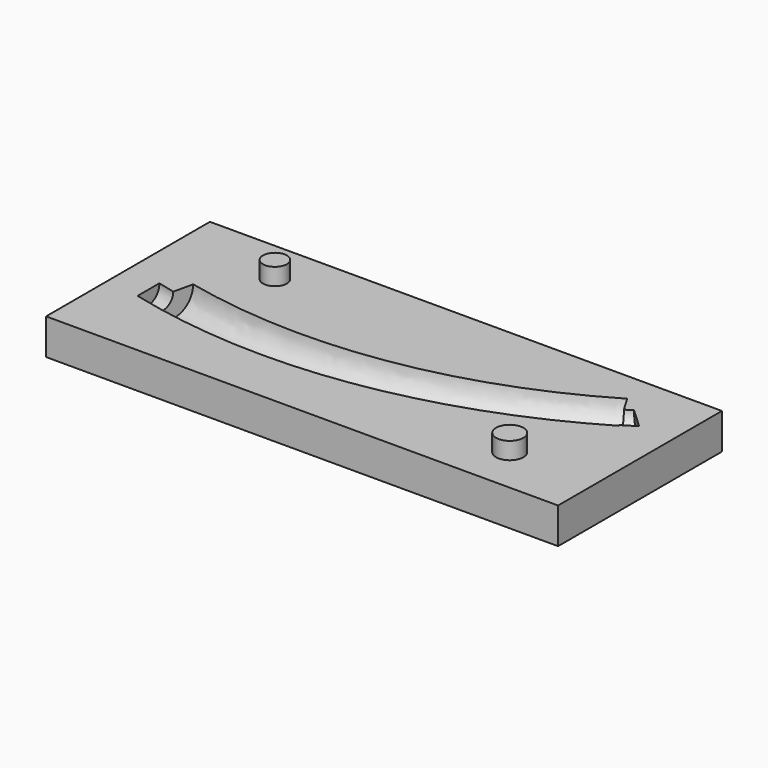
from build123d import *

# Parameters (mm, degrees)
SKETCH042_R      = 4
EXTRUDE025_DEPTH = 30
SKETCH040_R      = 7
SKETCH044_W      = 60
SKETCH044_H      = 10.5
EXTRUDE027_DEPTH = 150
SKETCH046_R      = 3.5
SKETCH046_R_2    = 4
EXTRUDE029_DEPTH = 5


with BuildPart() as sweep011:
    # Sweep011: sweep along a path in Sketch
    with BuildLine(Plane.XY) as sweep011_path:
        ThreePointArc((0, 0), (65.583227, -3.22849), (127, 20))
    # Sketch042 → Sweep011 (sweep)
    with BuildSketch(Plane(origin=(0, 0, 0), x_dir=(0, -1, 0), z_dir=(-1, 0, 0))):
        Circle(SKETCH042_R)
    sweep(path=sweep011_path.line)


with BuildPart() as sweep011_1:
    # Sweep011 placement: moved
    add(sweep011.part.moved(Location((0, -3, 0))))


with BuildPart() as extrude025:
    # Sketch041 → Extrude025 (new body)
    with BuildSketch(Plane.XY.offset(-15)):
        Polygon((-8.268976, 21.973037), (10.121624, 21.973037), (-0.555824, -25), (-25.401805, -25), align=None)
        Polygon((105.81268, 45.885295), (155.276998, 45.885295), (207.473539, -4.114705), (135.506671, -4.114705), align=None)
    extrude(amount=EXTRUDE025_DEPTH)


with BuildPart() as motor_tube_outer003:
    # Sweep009: sweep along a path in Sketch
    with BuildLine(Plane.XY) as sweep009_path:
        ThreePointArc((0, 0), (65.583227, -3.22849), (127, 20))
    # Sketch040 → Sweep009 (sweep)
    with BuildSketch(Plane(origin=(0, 0, 0), x_dir=(0, -1, 0), z_dir=(-1, 0, 0))):
        Circle(SKETCH040_R)
    sweep(path=sweep009_path.line)

    # Cut010: cut Extrude025
    add(extrude025.part, mode=Mode.SUBTRACT)

    # Fusion010: union Sweep011
    add(sweep011_1.part)


with BuildPart() as cut013:
    # Sketch044 → Extrude027 (new body)
    with BuildSketch(Plane(origin=(-10, 0, 0), x_dir=(0, -1, 0), z_dir=(-1, 0, 0))):
        with Locations((-2, -5.25)):
            Rectangle(SKETCH044_W, SKETCH044_H)
    extrude(amount=-EXTRUDE027_DEPTH)

    # Cut013: cut Motor Tube Outer003
    add(motor_tube_outer003.part, mode=Mode.SUBTRACT)


with BuildPart() as motor_mold_bottom:
    # Sketch046 → Extrude029 (new body)
    with BuildSketch(Plane.XY):
        with Locations((19.376185, 19.084115)):
            Circle(SKETCH046_R)
        with Locations((114.867691, -14.293477)):
            Circle(SKETCH046_R_2)
    extrude(amount=EXTRUDE029_DEPTH)

    # Fusion013: union Cut013
    add(cut013.part)


solid = motor_mold_bottom.part
